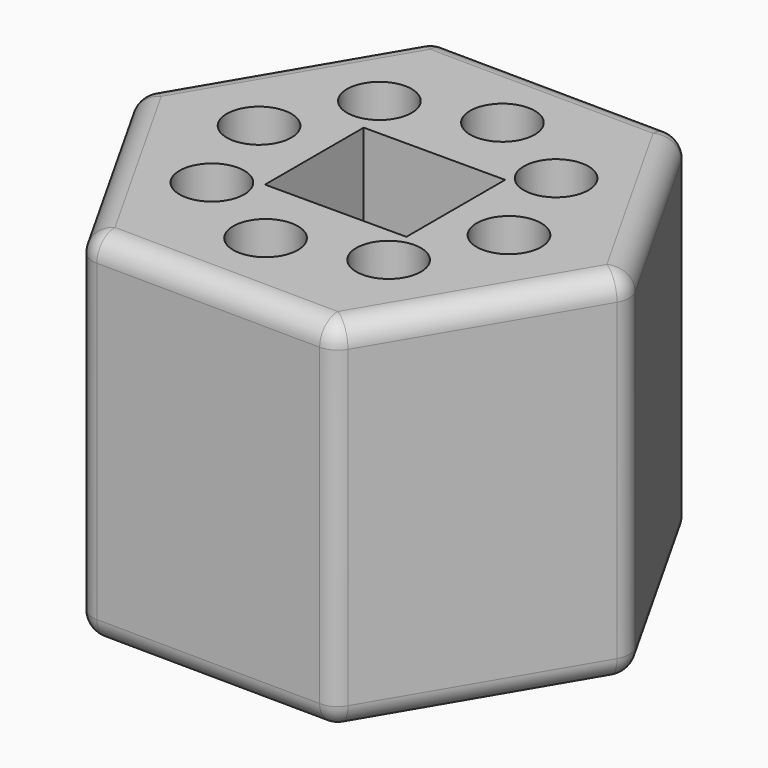
from build123d import *

# Parameters (mm, degrees)
F1_DEPTH = 80
F2_R     = 5
F3_R     = 7.212023
F4_DEPTH = 50
F5_DEPTH = 70
F6_W     = 31.557379
F6_H     = 27.543242
F7_DEPTH = 50


with BuildPart() as f1:
    # F0 (on Top) → F1 (new body)
    with BuildSketch(Plane.XY):
        Polygon((27.461036, -48.6942), (55.900933, -0.565146), (28.439897, 48.129055), (-27.461036, 48.6942), (-55.900933, 0.565146), (-28.439897, -48.129055), align=None)
    extrude(amount=-F1_DEPTH)

    # F2
    f2_edges = [f1.edges().sort_by_distance(p)[0] for p in [
        (55.900933, -0.565146, -40),
        (27.461036, -48.6942, -40),
        (41.680984, -24.629673, -80),
        (41.680984, -24.629673, 0),
        (-0.48943, -48.411628, 0),
        (-0.48943, -48.411628, -80),
        (-28.439897, -48.129055, -40),
        (42.170415, 23.781955, -80),
        (42.170415, 23.781955, 0),
        (28.439897, 48.129055, -40),
        (0.48943, 48.411628, 0),
        (-41.680984, 24.629673, 0),
        (-42.170415, -23.781955, 0),
        (0.48943, 48.411628, -80),
        (-41.680984, 24.629673, -80),
        (-42.170415, -23.781955, -80),
        (-55.900933, 0.565146, -40),
        (-27.461036, 48.6942, -40),
    ]]
    fillet(f2_edges, radius=F2_R)

    # F3 (on face) → F4 (join)
    with BuildSketch(Plane.XY):
        with Locations((-19.36131, 22.915926)):
            Circle(F3_R)
        with Locations((-29.89452, 2.513494)):
            Circle(F3_R)
        with Locations((-22.915926, -19.36131)):
            Circle(F3_R)
        with Locations((-2.513494, -29.89452)):
            Circle(F3_R)
        with Locations((19.36131, -22.915926)):
            Circle(F3_R)
        with Locations((29.89452, -2.513494)):
            Circle(F3_R)
        with Locations((22.915926, 19.36131)):
            Circle(F3_R)
        with Locations((2.513494, 29.89452)):
            Circle(F3_R)
    extrude(amount=-F4_DEPTH)

    # F3 (on face) → F5 (cut)
    with BuildSketch(Plane.XY):
        with Locations((-29.89452, 2.513494)):
            Circle(F3_R)
        with Locations((-22.915926, -19.36131)):
            Circle(F3_R)
        with Locations((19.36131, -22.915926)):
            Circle(F3_R)
        with Locations((2.513494, 29.89452)):
            Circle(F3_R)
        with Locations((-2.513494, -29.89452)):
            Circle(F3_R)
        with Locations((-19.36131, 22.915926)):
            Circle(F3_R)
        with Locations((22.915926, 19.36131)):
            Circle(F3_R)
        with Locations((29.89452, -2.513494)):
            Circle(F3_R)
    extrude(amount=-F5_DEPTH, mode=Mode.SUBTRACT)

    # F6 (on face) → F7 (cut)
    with BuildSketch(Plane.XY):
        with Locations((0.573771, -0.422957)):
            Rectangle(F6_W, F6_H)
    extrude(amount=-F7_DEPTH, mode=Mode.SUBTRACT)


solid = f1.part
